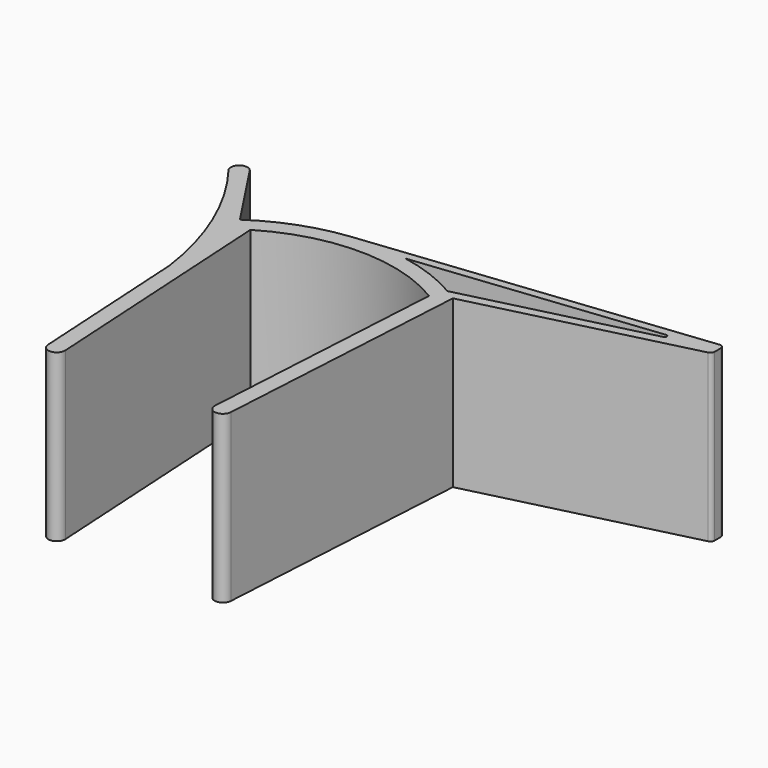
from build123d import *

# Parameters (mm, degrees)
F1_DEPTH = 20


with BuildPart() as f1:
    # F0 (on Top) → F1 (new body)
    with BuildSketch(Plane.XY):
        with BuildLine():
            ThreePointArc((-10.407943, -26.715306), (-9.351406, -27.655374), (-8.411337, -26.598837))
            Line((-8.411337, -26.598837), (-10.407943, -26.715306))
        make_face()
        with BuildLine():
            Line((11.585269, -26.715306), (9.588663, -26.598837))
            ThreePointArc((9.588663, -26.598837), (10.528732, -27.655374), (11.585269, -26.715306))
        make_face()
        with BuildLine():
            ThreePointArc((-10.161337, 3.401163), (0.588663, 6.401163), (11.338663, 3.401163))
            Line((11.338663, 3.401163), (9.588663, -26.598837))
            Line((9.588663, -26.598837), (11.585269, -26.715306))
            Line((11.585269, -26.715306), (13.400839, 4.40875))
            ThreePointArc((13.400839, 4.40875), (12.751886, 4.835248), (12.08875, 5.23934))
            ThreePointArc((12.08875, 5.23934), (8.584038, 6.909612), (4.846286, 7.959386))
            ThreePointArc((4.846286, 7.959386), (1.485483, 8.343819), (-1.895165, 8.225455))
            ThreePointArc((-1.895165, 8.225455), (-7.293833, 6.951665), (-12.223513, 4.40875))
            Line((-12.223513, 4.40875), (-11.555542, -7.042185))
            Line((-11.555542, -7.042185), (-10.407943, -26.715306))
            Line((-10.407943, -26.715306), (-8.411337, -26.598837))
            Line((-8.411337, -26.598837), (-10.161337, 3.401163))
        make_face()
        with BuildLine():
            ThreePointArc((-19.390229, 11.663968), (-14.25265, 2.821962), (-11.555542, -7.042185))
            Line((-11.555542, -7.042185), (-12.223513, 4.40875))
            Line((-12.223513, 4.40875), (-17.719352, 12.763136))
            Line((-17.719352, 12.763136), (-19.390229, 11.663968))
        make_face()
        with BuildLine():
            ThreePointArc((-17.719352, 12.763136), (-19.104374, 13.04899), (-19.390229, 11.663968))
            Line((-19.390229, 11.663968), (-17.719352, 12.763136))
        make_face()
        with BuildLine():
            ThreePointArc((12.08875, 5.23934), (12.751886, 4.835248), (13.400839, 4.40875))
            Line((13.400839, 4.40875), (39.021619, 10.786566))
            ThreePointArc((39.021619, 10.786566), (39.294787, 10.963855), (39.400839, 11.271759))
            Line((39.400839, 11.271759), (39.400839, 12.205185))
            ThreePointArc((39.400839, 12.205185), (39.234526, 12.577547), (38.846227, 12.702194))
            Line((38.846227, 12.702194), (-1.895165, 8.225455))
            ThreePointArc((-1.895165, 8.225455), (1.485483, 8.343819), (4.846286, 7.959386))
            Line((4.846286, 7.959386), (33.684866, 11.128222))
            ThreePointArc((33.684866, 11.128222), (33.958279, 10.923665), (33.772562, 10.637121))
            Line((33.772562, 10.637121), (12.08875, 5.23934))
        make_face()
    extrude(amount=F1_DEPTH)


solid = f1.part
